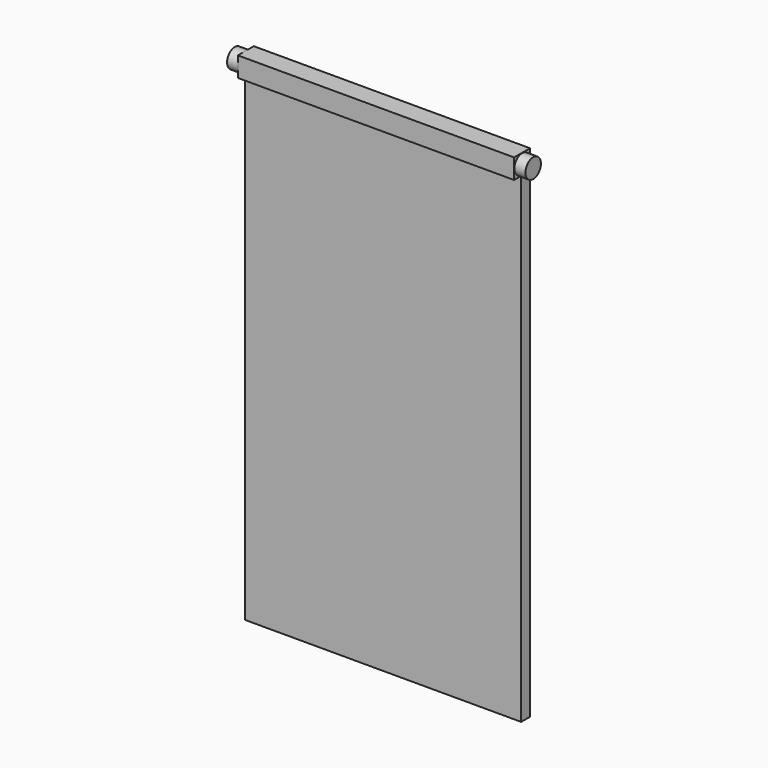
from build123d import *

# Parameters (mm, degrees)
F0_W      = 50
F0_H      = 81
F1_DEPTH  = 2
F0_H_2    = 3.6
F2_DEPTH  = 3.6
F4_R      = 1.75
F5_DEPTH  = 2
F3_R      = 1.75
F6_DEPTH  = 2
F1_FACE_W = 50
F1_FACE_H = 2
F7_DEPTH  = 6


with BuildPart() as f1:
    # F0 (on Front) → F1 (new body)
    with BuildSketch(Plane.XZ):
        with Locations((25, 40.5)):
            Rectangle(F0_W, F0_H)
    extrude(amount=F1_DEPTH)

    # F0 (on Front) → F2 (join)
    with BuildSketch(Plane.XZ):
        with Locations((25, 82.8)):
            Rectangle(F0_W, F0_H_2)
    extrude(amount=F2_DEPTH)

    # F4 (on face) → F5 (join)
    with BuildSketch(Plane(origin=(0, 0, 0), x_dir=(0, -1, 0), z_dir=(-1, 0, 0))):
        with Locations((1.783865, 82.8)):
            Circle(F4_R)
    extrude(amount=F5_DEPTH)

    # F3 (on face) → F6 (join)
    with BuildSketch(Plane.YZ.offset(50)):
        with Locations((-1.783865, 82.8)):
            Circle(F3_R)
    extrude(amount=F6_DEPTH)

    # F1_face (on face) → F7 (join)
    with BuildSketch(Plane(origin=(25, -1, 0), x_dir=(1, 0, 0), z_dir=(0, 0, -1))):
        Rectangle(F1_FACE_W, F1_FACE_H)
    extrude(amount=F7_DEPTH)


solid = f1.part
